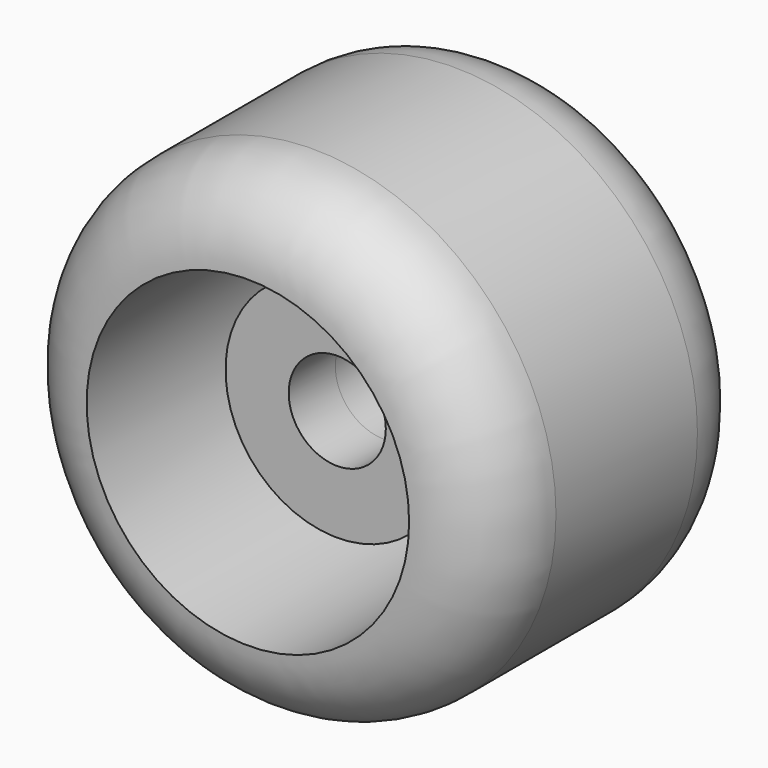
from build123d import *

# Parameters (mm, degrees)
F0_R          = 25
F0_R_2        = 11.5
F1_DEPTH      = 17.5
F1_DEPTH_BACK = 17.5
F0_R_3        = 5
F2_DEPTH      = 6
F3_DEPTH      = 6
F4_R          = 8.4
F6_DEPTH      = 110.7


with BuildPart() as f1:
    # F0 (on Front) → F1 (new body, two sides)
    with BuildSketch(Plane.XZ) as f1_sk:
        Circle(F0_R)
        Circle(F0_R_2, mode=Mode.SUBTRACT)
    extrude(amount=F1_DEPTH)
    extrude(f1_sk.sketch, amount=-F1_DEPTH_BACK)

    # F0 (on Front) → F2 (join)
    with BuildSketch(Plane.XZ):
        Circle(F0_R_2)
        Circle(F0_R_3, mode=Mode.SUBTRACT)
    extrude(amount=F2_DEPTH)

    # F0 (on Front) → F3 (join)
    with BuildSketch(Plane.XZ):
        Circle(F0_R_2)
        Circle(F0_R_3, mode=Mode.SUBTRACT)
    extrude(amount=-F3_DEPTH)

    # F4
    f4_edges = [f1.edges().sort_by_distance(p)[0] for p in [
        (-25, -17.5, 0),
        (-25, 17.5, 0),
    ]]
    fillet(f4_edges, radius=F4_R)

    # F6 (cut): a face of the model
    f6_faces = [f1.faces().sort_by_distance(p)[0] for p in [
        (-16.1304810973, -17.5, 0),
    ]]
    extrude(f6_faces, amount=-F6_DEPTH, mode=Mode.SUBTRACT)


solid = f1.part
